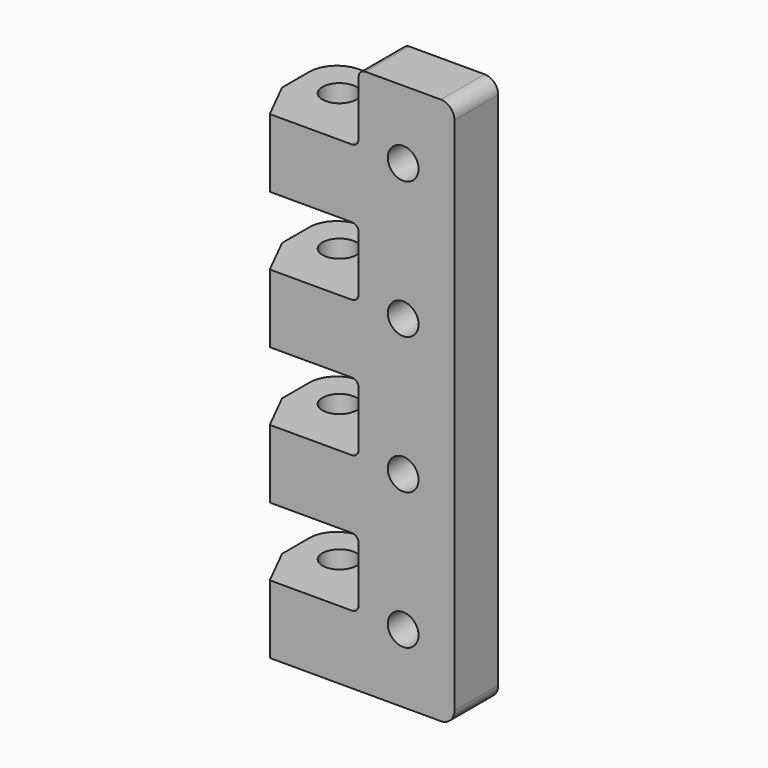
from build123d import *

# Parameters (mm, degrees)
SKETCH_R         = 2.5
PAD_DEPTH        = 80
SKETCH001_W      = 15
SKETCH001_H      = 10
POCKET_DEPTH     = 16
HOLE_D           = 4.5
HOLE_CSINK_D     = 10
HOLE_CSINK_ANGLE = 90
FILLET_R         = 4
FILLET001_R      = 2
CHAMFER_SIZE2    = 6
CHAMFER_SIZE     = 3
CHAMFER001_SIZE2 = 6
CHAMFER001_SIZE  = 3
FILLET002_R      = 1
FILLET003_R      = 1
FILLET004_R      = 2


with BuildPart() as part:
    # Sketch → Pad (new body)
    with BuildSketch(Plane.XY):
        Polygon((0, 0), (0, 15), (8.325291, 15), (16, 8), (30, 8), (30, 0), align=None)
        with Locations((6, 9)):
            Circle(SKETCH_R, mode=Mode.SUBTRACT)
    extrude(amount=PAD_DEPTH)

    # Sketch001 (on Face1 of Pad) → Pocket (cut)
    with BuildSketch(Plane(origin=(0, 0, 0), x_dir=(0, -1, 0), z_dir=(-1, 0, 0))):
        with Locations((-7.5, 15)):
            Rectangle(SKETCH001_W, SKETCH001_H)
        with Locations((-7.5, 35)):
            Rectangle(SKETCH001_W, SKETCH001_H)
        with Locations((-7.5, 55)):
            Rectangle(SKETCH001_W, SKETCH001_H)
        with Locations((-7.5, 75)):
            Rectangle(SKETCH001_W, SKETCH001_H)
    extrude(amount=-POCKET_DEPTH, mode=Mode.SUBTRACT)

    # Hole (through all)
    with Locations(Plane(origin=(0, 8, 0), x_dir=(-1, 0, 0), z_dir=(0, 1, 0))):
        with Locations((-22.5, 70), (-22.5, 50), (-22.5, 30), (-22.5, 10)):
            CounterSinkHole(HOLE_D / 2, HOLE_CSINK_D / 2, counter_sink_angle=HOLE_CSINK_ANGLE)

    # Fillet
    fillet_edges = [part.edges().sort_by_distance(p)[0] for p in [
        (0, 15, 5),
        (0, 15, 25),
        (0, 15, 45),
        (0, 15, 65),
    ]]
    fillet(fillet_edges, radius=FILLET_R)

    # Fillet001
    fillet001_edges = [part.edges().sort_by_distance(p)[0] for p in [
        (8.325291, 15, 5),
        (8.325291, 15, 25),
        (8.325291, 15, 45),
        (8.325291, 15, 65),
    ]]
    fillet(fillet001_edges, radius=FILLET001_R)

    # Chamfer
    chamfer_edges = [part.edges().sort_by_distance(p)[0] for p in [
        (0, 0, 25),
        (0, 0, 45),
        (0, 0, 65),
    ]]
    chamfer_side = part.faces().sort_by_distance((17.359651, 0, 38.113633))[0]
    chamfer(chamfer_edges, length=CHAMFER_SIZE, length2=CHAMFER_SIZE2, reference=chamfer_side)

    # Chamfer001
    chamfer001_edges = [part.edges().sort_by_distance(p)[0] for p in [
        (0, 0, 5),
    ]]
    chamfer001_side = part.faces().sort_by_distance((18.248211, 0, 37.727814))[0]
    chamfer(chamfer001_edges, length=CHAMFER001_SIZE, length2=CHAMFER001_SIZE2, reference=chamfer001_side)

    # Fillet002
    fillet002_edges = [part.edges().sort_by_distance(p)[0] for p in [
        (16, 8, 5),
        (16, 8, 25),
        (16, 8, 45),
        (16, 8, 65),
    ]]
    fillet(fillet002_edges, radius=FILLET002_R)

    # Fillet003
    fillet003_edges = [part.edges().sort_by_distance(p)[0] for p in [
        (16, 4, 10),
        (16, 4, 30),
        (16, 4, 50),
        (16, 4, 70),
        (16, 4, 80),
        (16, 4, 20),
        (16, 4, 40),
        (16, 4, 60),
    ]]
    fillet(fillet003_edges, radius=FILLET003_R)

    # Fillet004
    fillet004_edges = [part.edges().sort_by_distance(p)[0] for p in [
        (30, 4, 0),
        (30, 4, 80),
    ]]
    fillet(fillet004_edges, radius=FILLET004_R)


solid = part.part
